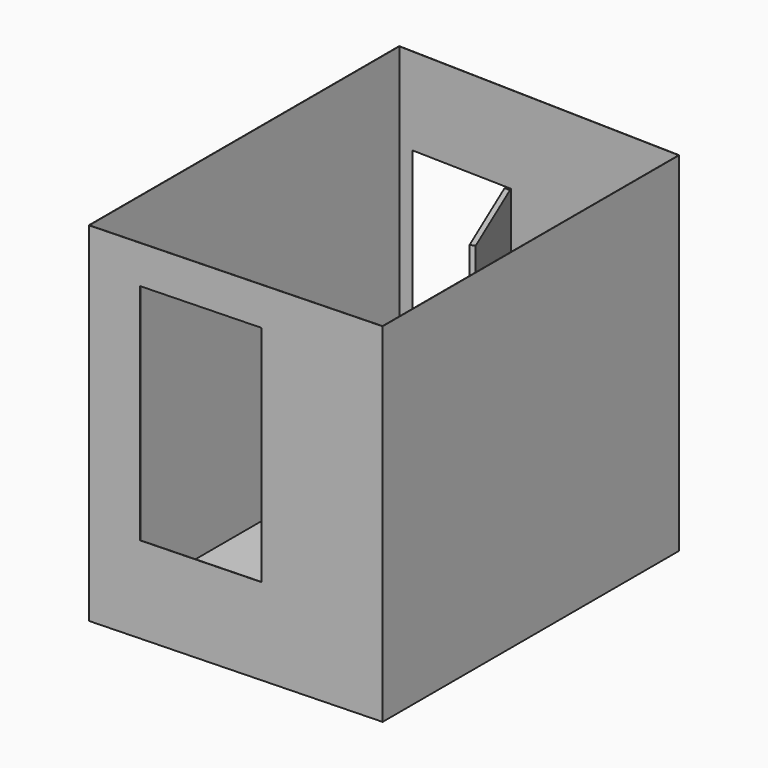
from build123d import *

# Parameters (mm, degrees)
F1_DEPTH  = 2800
F3_T      = -2.5
F2_W      = 810.2791197664
F2_H      = 2100
F4_DEPTH  = 25
F5_W      = 950
F5_H      = 1800
F6_DEPTH  = 25
F8_DEPTH  = 2100
F9_W      = 500
F9_H      = 500
F10_DEPTH = 500


with BuildPart() as f1:
    # F0 (on Top) → F1 (new body)
    with BuildSketch(Plane.XY):
        with BuildLine():
            Line((0, 0), (0, -3120))
            Line((0, -3120), (2298.6209382309, -3040.3646917089))
            Line((2298.6209382309, -3040.3646917089), (2299.207710717, -60.3647494777))
            Line((2299.207710717, -60.3647494777), (979.207710717, -25.70869429))
            Line((979.207710717, -25.70869429), (920, -24.1542202823))
            Line((920, -24.1542202823), (920, -834.4333400488))
            ThreePointArc((920, -834.4333400488), (339.5760935083, -589.5393462827), (110, -2.888004599))
            Line((110, -2.888004599), (0, 0))
        make_face()
        with BuildLine():
            Line((920, -24.1542202823), (110, -2.888004599))
            ThreePointArc((110, -2.888004599), (339.5760935083, -589.5393462827), (920, -834.4333400488))
            Line((920, -834.4333400488), (920, -24.1542202823))
        make_face()
    extrude(amount=F1_DEPTH)

    # F3
    f3_openings = [f1.faces().sort_by_distance(p)[0] for p in [
        (1140.663346, -1555.152855, 2800),
    ]]
    offset(amount=F3_T, openings=f3_openings)

    # F2 (on face) → F4 (cut)
    with BuildSketch(Plane(origin=(0, 0, 0), x_dir=(-0.9996555264, 0.0262455433, 0), z_dir=(0.0262455433, 0.9996555264, 0))):
        with Locations((-515.1774650367, 1050)):
            Rectangle(F2_W, F2_H)
    extrude(amount=-F4_DEPTH, mode=Mode.SUBTRACT)

    # F5 (on face) → F6 (cut)
    with BuildSketch(Plane(origin=(107.9622547502, -3116.2596671344, 0), x_dir=(0.9994004079, 0.0346240471, 0), z_dir=(0.0346240471, -0.9994004079, 0))):
        with Locations((769.5610850299, 1594.4172442177)):
            Rectangle(F5_W, F5_H)
    extrude(amount=-F6_DEPTH, mode=Mode.SUBTRACT)


with BuildPart() as f8:
    # F7 (on face) → F8 (new body)
    with BuildSketch(Plane.XY.offset(2.5)):
        Polygon((1233.385013391, -773.2569011416), (919.9343861419, -26.6533590983), (919.3438614187, -49.1456084423), (885.623501836, -48.2602943191), (1196.5035627008, -788.7410412531), align=None)
    extrude(amount=F8_DEPTH)


with BuildPart() as f10:
    # F9 (on face) → F10 (new body)
    with BuildSketch(Plane.XY.offset(2.5)):
        with Locations((978.150844574, -1579.4820951094)):
            Rectangle(F9_W, F9_H)
    extrude(amount=F10_DEPTH)


solid = Compound([f1.part, f8.part, f10.part])
